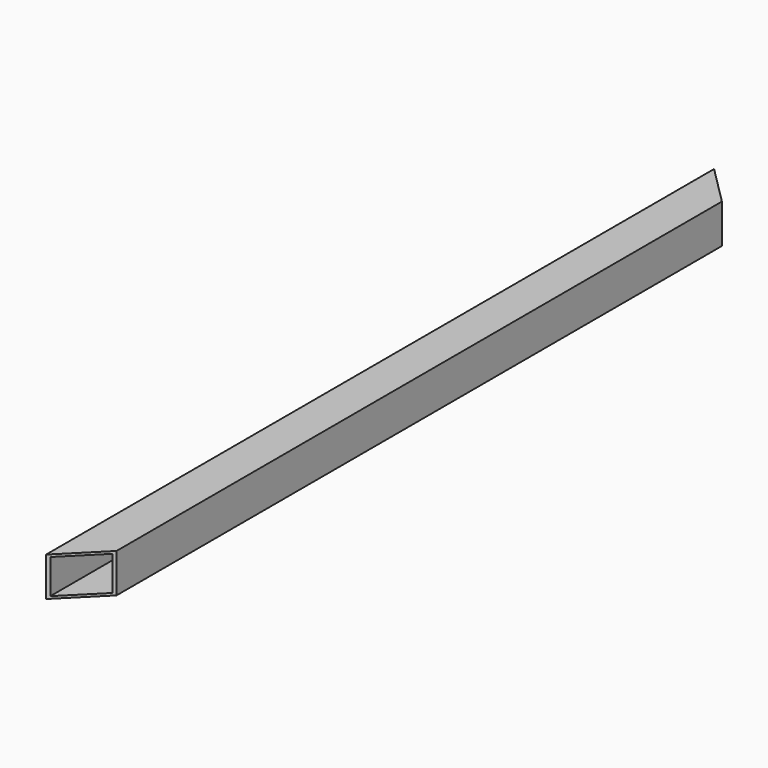
from build123d import *

# Parameters (mm, degrees)
F0_W     = 38.1
F0_H     = 38.1
F0_W_2   = 33.528
F0_H_2   = 33.528
F1_DEPTH = 812.8
F3_DEPTH = 50.8


with BuildPart() as f1:
    # F0 (on Front) → F1 (new body)
    with BuildSketch(Plane.XZ):
        with Locations((-19.05, -19.05)):
            Rectangle(F0_W, F0_H)
        with Locations((-19.05, -19.05)):
            Rectangle(F0_W_2, F0_H_2, mode=Mode.SUBTRACT)
    extrude(amount=F1_DEPTH)

    # F2 (on face) → F3 (cut)
    with BuildSketch(Plane.XY):
        Polygon((0, -774.7), (-38.1, -812.8), (0, -812.8), align=None)
        Polygon((0, 0), (-38.1, 0), (0, -38.1), align=None)
    extrude(amount=-F3_DEPTH, mode=Mode.SUBTRACT)


solid = f1.part
